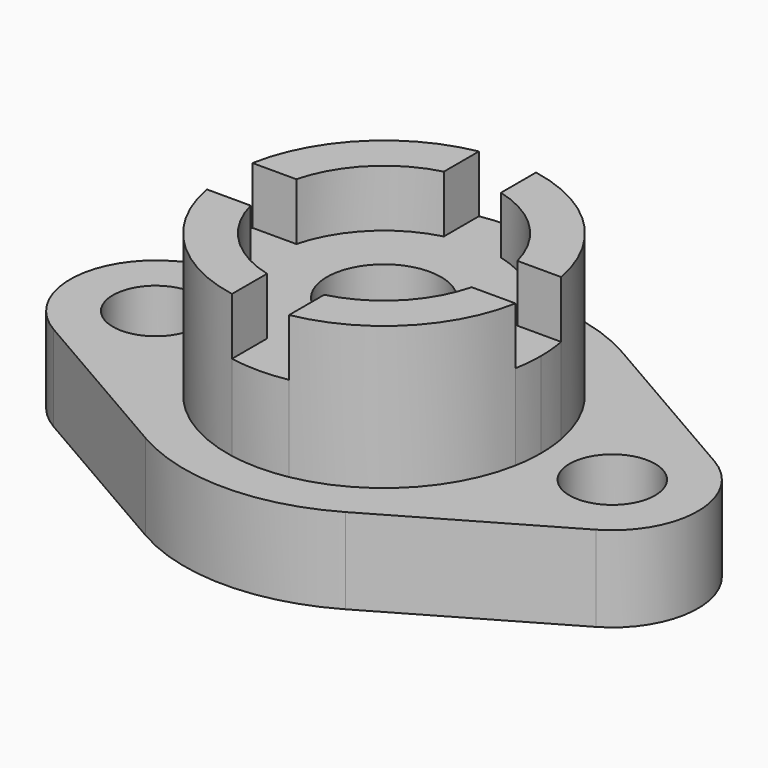
from build123d import *

# Parameters (mm, degrees)
F0_R     = 9.525
F1_DEPTH = 19.05
F0_R_2   = 12.7
F2_DEPTH = 38.1
F3_DEPTH = 50.8


with BuildPart() as f1:
    # F0 (on Top) → F1 (new body)
    with BuildSketch(Plane.XY):
        with BuildLine():
            Line((-60.325, -16.497784), (-22.225, -38.494829))
            ThreePointArc((-22.225, -38.494829), (0, -44.45), (22.225, -38.494829))
            Line((22.225, -38.494829), (60.325, -16.497784))
            ThreePointArc((60.325, -16.497784), (69.85, 0), (60.325, 16.497784))
            Line((60.325, 16.497784), (22.225, 38.494829))
            ThreePointArc((22.225, 38.494829), (0, 44.45), (-22.225, 38.494829))
            Line((-22.225, 38.494829), (-60.325, 16.497784))
            ThreePointArc((-60.325, 16.497784), (-69.85, 0), (-60.325, -16.497784))
        make_face()
        with Locations((-50.8, 0)):
            Circle(F0_R, mode=Mode.SUBTRACT)
        with BuildLine():
            ThreePointArc((34.342876, 6.35), (34.779164, 3.188313), (34.925, 0))
            ThreePointArc((34.925, 0), (34.779164, -3.188313), (34.342876, -6.35))
            ThreePointArc((34.342876, -6.35), (24.695704, -24.695704), (6.35, -34.342876))
            ThreePointArc((6.35, -34.342876), (0, -34.925), (-6.35, -34.342876))
            ThreePointArc((-6.35, -34.342876), (-24.695704, -24.695704), (-34.342876, -6.35))
            ThreePointArc((-34.342876, -6.35), (-34.925, 0), (-34.342876, 6.35))
            ThreePointArc((-34.342876, 6.35), (-24.695704, 24.695704), (-6.35, 34.342876))
            ThreePointArc((-6.35, 34.342876), (0, 34.925), (6.35, 34.342876))
            ThreePointArc((6.35, 34.342876), (24.695704, 24.695704), (34.342876, 6.35))
        make_face(mode=Mode.SUBTRACT)
        with Locations((50.8, 0)):
            Circle(F0_R, mode=Mode.SUBTRACT)
    extrude(amount=F1_DEPTH)

    # F0 (on Top) → F2 (join)
    with BuildSketch(Plane.XY):
        with BuildLine():
            ThreePointArc((25.4, 0), (25.197554, 3.200509), (24.593444, 6.35))
            ThreePointArc((24.593444, 6.35), (17.960512, 17.960512), (6.35, 24.593444))
            ThreePointArc((6.35, 24.593444), (0, 25.4), (-6.35, 24.593444))
            ThreePointArc((-6.35, 24.593444), (-17.960512, 17.960512), (-24.593444, 6.35))
            ThreePointArc((-24.593444, 6.35), (-25.4, 0), (-24.593444, -6.35))
            ThreePointArc((-24.593444, -6.35), (-17.960512, -17.960512), (-6.35, -24.593444))
            ThreePointArc((-6.35, -24.593444), (0, -25.4), (6.35, -24.593444))
            ThreePointArc((6.35, -24.593444), (17.960512, -17.960512), (24.593444, -6.35))
            ThreePointArc((24.593444, -6.35), (25.197554, -3.200509), (25.4, 0))
        make_face()
        Circle(F0_R_2, mode=Mode.SUBTRACT)
        with BuildLine():
            Line((-24.593444, 6.35), (-34.342876, 6.35))
            ThreePointArc((-34.342876, 6.35), (-34.925, 0), (-34.342876, -6.35))
            Line((-34.342876, -6.35), (-24.593444, -6.35))
            ThreePointArc((-24.593444, -6.35), (-25.4, 0), (-24.593444, 6.35))
        make_face()
        with BuildLine():
            Line((6.35, 24.593444), (6.35, 34.342876))
            ThreePointArc((6.35, 34.342876), (0, 34.925), (-6.35, 34.342876))
            Line((-6.35, 34.342876), (-6.35, 24.593444))
            ThreePointArc((-6.35, 24.593444), (0, 25.4), (6.35, 24.593444))
        make_face()
        with BuildLine():
            ThreePointArc((-6.35, -34.342876), (0, -34.925), (6.35, -34.342876))
            Line((6.35, -34.342876), (6.35, -24.593444))
            ThreePointArc((6.35, -24.593444), (0, -25.4), (-6.35, -24.593444))
            Line((-6.35, -24.593444), (-6.35, -34.342876))
        make_face()
        with BuildLine():
            ThreePointArc((34.342876, -6.35), (34.779164, -3.188313), (34.925, 0))
            ThreePointArc((34.925, 0), (34.779164, 3.188313), (34.342876, 6.35))
            Line((34.342876, 6.35), (24.593444, 6.35))
            ThreePointArc((24.593444, 6.35), (25.197554, 3.200509), (25.4, 0))
            ThreePointArc((25.4, 0), (25.197554, -3.200509), (24.593444, -6.35))
            Line((24.593444, -6.35), (34.342876, -6.35))
        make_face()
    extrude(amount=F2_DEPTH)

    # F0 (on Top) → F3 (join)
    with BuildSketch(Plane.XY):
        with BuildLine():
            Line((24.593444, 6.35), (34.342876, 6.35))
            ThreePointArc((34.342876, 6.35), (24.695704, 24.695704), (6.35, 34.342876))
            Line((6.35, 34.342876), (6.35, 24.593444))
            ThreePointArc((6.35, 24.593444), (17.960512, 17.960512), (24.593444, 6.35))
        make_face()
        with BuildLine():
            ThreePointArc((6.35, -34.342876), (24.695704, -24.695704), (34.342876, -6.35))
            Line((34.342876, -6.35), (24.593444, -6.35))
            ThreePointArc((24.593444, -6.35), (17.960512, -17.960512), (6.35, -24.593444))
            Line((6.35, -24.593444), (6.35, -34.342876))
        make_face()
        with BuildLine():
            ThreePointArc((-34.342876, -6.35), (-24.695704, -24.695704), (-6.35, -34.342876))
            Line((-6.35, -34.342876), (-6.35, -24.593444))
            ThreePointArc((-6.35, -24.593444), (-17.960512, -17.960512), (-24.593444, -6.35))
            Line((-24.593444, -6.35), (-34.342876, -6.35))
        make_face()
        with BuildLine():
            Line((-6.35, 24.593444), (-6.35, 34.342876))
            ThreePointArc((-6.35, 34.342876), (-24.695704, 24.695704), (-34.342876, 6.35))
            Line((-34.342876, 6.35), (-24.593444, 6.35))
            ThreePointArc((-24.593444, 6.35), (-17.960512, 17.960512), (-6.35, 24.593444))
        make_face()
    extrude(amount=F3_DEPTH)


solid = f1.part
